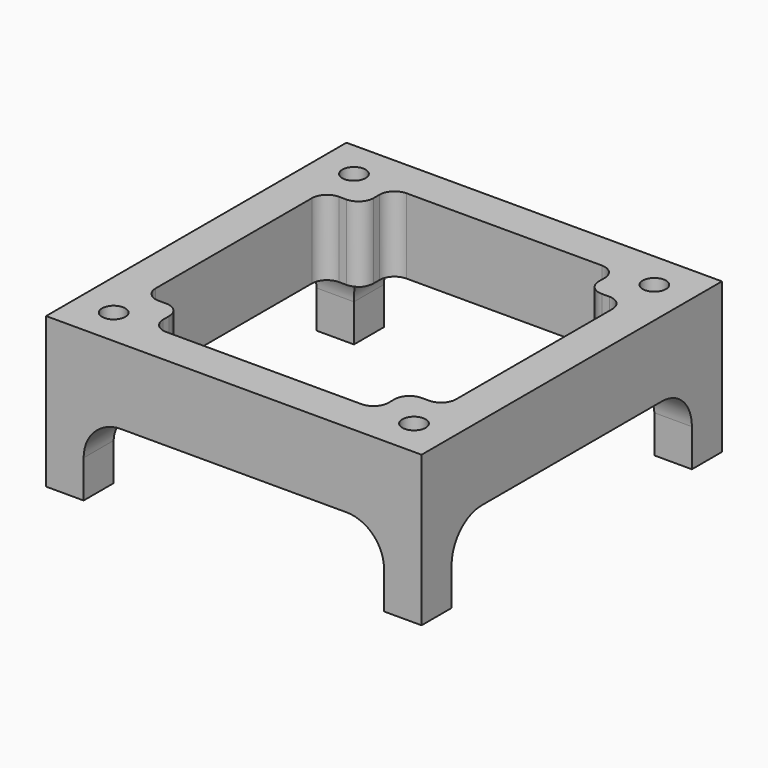
from build123d import *

# Parameters (mm, degrees)
SKETCH107_W             = 50
SKETCH107_H             = 50
PAD018_DEPTH            = 20
POCKET090_DEPTH         = 20.001
POCKET091_DEPTH         = 50.001
POCKET092_DEPTH         = 50.001
SKETCH111_R             = 1.55
POCKET093_DEPTH         = 5
SKETCH112_R             = 1.55
POCKET094_DEPTH         = 3
SKETCH113_R             = 1.55
POCKET095_DEPTH         = 3
BODY019_PLACEMENT_ANGLE = 90


with BuildPart() as part:
    # Sketch107 → Pad018 (new body)
    with BuildSketch(Plane.XY):
        Rectangle(SKETCH107_W, SKETCH107_H)
    extrude(amount=PAD018_DEPTH)

    # Sketch108 (on Face6 of Pad018) → Pocket090 (cut, through all)
    with BuildSketch(Plane.XY.offset(20)):
        with BuildLine():
            Line((-18, 15), (-17, 15))
            ThreePointArc((-17, 15), (-15.585786, 15.585786), (-15, 17))
            Line((-15, 17), (-15, 18))
            ThreePointArc((-13, 20), (-14.414214, 19.414214), (-15, 18))
            Line((-13, 20), (13, 20))
            ThreePointArc((15, 18), (14.414214, 19.414214), (13, 20))
            Line((15, 18), (15, 17))
            ThreePointArc((15, 17), (15.585786, 15.585786), (17, 15))
            Line((17, 15), (18, 15))
            ThreePointArc((20, 13), (19.414214, 14.414214), (18, 15))
            Line((20, 13), (20, -13))
            ThreePointArc((18, -15), (19.414214, -14.414214), (20, -13))
            Line((18, -15), (17, -15))
            ThreePointArc((17, -15), (15.585786, -15.585786), (15, -17))
            Line((15, -17), (15, -18))
            ThreePointArc((13, -20), (14.414214, -19.414214), (15, -18))
            Line((13, -20), (-13, -20))
            ThreePointArc((-15, -18), (-14.414214, -19.414214), (-13, -20))
            Line((-15, -18), (-15, -17))
            ThreePointArc((-15, -17), (-15.585786, -15.585786), (-17, -15))
            Line((-17, -15), (-18, -15))
            ThreePointArc((-20, -13), (-19.414214, -14.414214), (-18, -15))
            Line((-20, -13), (-20, 13))
            ThreePointArc((-18, 15), (-19.414214, 14.414214), (-20, 13))
        make_face()
    extrude(amount=-POCKET090_DEPTH, mode=Mode.SUBTRACT)

    # Sketch109 (on Face3 of Pocket090) → Pocket091 (cut, through all)
    with BuildSketch(Plane.YZ.offset(25)):
        with BuildLine():
            Line((-15, 10), (15, 10))
            ThreePointArc((20, 5), (18.535534, 8.535534), (15, 10))
            Line((20, 5), (20, 0))
            Line((20, 0), (-20, 0))
            Line((-20, 0), (-20, 5))
            ThreePointArc((-15, 10), (-18.535534, 8.535534), (-20, 5))
        make_face()
    extrude(amount=-POCKET091_DEPTH, mode=Mode.SUBTRACT)

    # Sketch110 (on Face6 of Pocket090) → Pocket092 (cut, through all)
    with BuildSketch(Plane.XZ.offset(25)):
        with BuildLine():
            Line((-15, 10), (15, 10))
            ThreePointArc((20, 5), (18.535534, 8.535534), (15, 10))
            Line((20, 5), (20, 0))
            Line((20, 0), (-20, 0))
            Line((-20, 0), (-20, 5))
            ThreePointArc((-15, 10), (-18.535534, 8.535534), (-20, 5))
        make_face()
    extrude(amount=-POCKET092_DEPTH, mode=Mode.SUBTRACT)

    # Sketch111 → Pocket093 (cut)
    with BuildSketch(Plane.XY.offset(20)):
        with Locations((-20, 20)):
            Circle(SKETCH111_R)
        with Locations((20, 20)):
            Circle(SKETCH111_R)
        with Locations((20, -20)):
            Circle(SKETCH111_R)
        with Locations((-20, -20)):
            Circle(SKETCH111_R)
    extrude(amount=-POCKET093_DEPTH, mode=Mode.SUBTRACT)

    # Sketch112 (on Face27 of Pocket093) → Pocket094 (cut)
    with BuildSketch(Plane.XZ.offset(25)):
        with Locations((-20, 14)):
            Circle(SKETCH112_R)
        with Locations((20, 14)):
            Circle(SKETCH112_R)
    extrude(amount=-POCKET094_DEPTH, mode=Mode.SUBTRACT)

    # Sketch113 (on Face11 of Pocket094) → Pocket095 (cut)
    with BuildSketch(Plane(origin=(-25, 0, 0), x_dir=(0, -1, 0), z_dir=(-1, 0, 0))):
        with Locations((-20, 14)):
            Circle(SKETCH113_R)
        with Locations((20, 14)):
            Circle(SKETCH113_R)
    extrude(amount=-POCKET095_DEPTH, mode=Mode.SUBTRACT)


with BuildPart() as part_1:
    # Body019 placement: moved
    add(part.part.moved(Location((25, 145, 0))).rotate(Axis((25, 145, 0), (0, 0, -1)), BODY019_PLACEMENT_ANGLE))


solid = part_1.part
